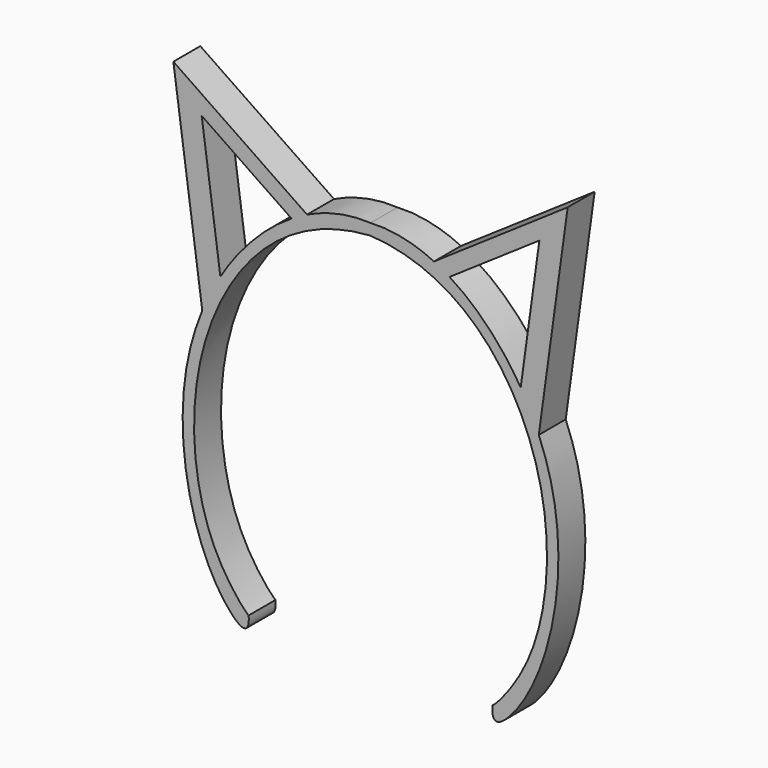
from build123d import *

# Parameters (mm, degrees)
F1_DEPTH = 2.54


with BuildPart() as f1:
    # F0 (on Front) → F1 (new body)
    with BuildSketch(Plane.XZ):
        with BuildLine():
            Line((14.8689377659, 34.9178511836), (4.7862156734, 28.0418161935))
            add(Edge.make_bspline(
                [(4.7862156734, 28.0418161935), (5.1842631853, 27.8511368087), (5.5753581281, 27.6360125047), (5.9582704652, 27.3984828182)],
                knots=[0.1204484957, 0.1204484957, 0.1204484957, 0.1204484957, 0.1520508561, 0.1520508561, 0.1520508561, 0.1520508561], degree=3))
            Line((5.9582704652, 27.3984828182), (12.732363106, 32.0181577032))
            Line((12.732363106, 32.0181577032), (11.3236512241, 21.7942845656))
            add(Edge.make_bspline(
                [(11.3236512241, 21.7942845656), (11.8440132645, 20.9359181108), (12.302606577, 20.0312328496), (12.6890896057, 19.0973762258)],
                knots=[0.3256392374, 0.3256392374, 0.3256392374, 0.3256392374, 0.3898994489, 0.3898994489, 0.3898994489, 0.3898994489], degree=3))
            Line((12.6890896057, 19.0973762258), (14.8689377659, 34.9178511836))
        make_face()
        with BuildLine():
            add(Edge.make_bspline(
                [(-4.7862156734, 28.0418161935), (-5.1842631853, 27.8511368087), (-5.5753581281, 27.6360125047), (-5.9582704652, 27.3984828182)],
                knots=[0.1204484957, 0.1204484957, 0.1204484957, 0.1204484957, 0.1520508561, 0.1520508561, 0.1520508561, 0.1520508561], degree=3))
            Line((-4.7862156734, 28.0418161935), (-14.8689377659, 34.9178511836))
            Line((-14.8689377659, 34.9178511836), (-12.6890896057, 19.0973762258))
            add(Edge.make_bspline(
                [(-11.3236512241, 21.7942845656), (-11.8440132645, 20.9359181108), (-12.302606577, 20.0312328496), (-12.6890896057, 19.0973762258)],
                knots=[0.3256392374, 0.3256392374, 0.3256392374, 0.3256392374, 0.3898994489, 0.3898994489, 0.3898994489, 0.3898994489], degree=3))
            Line((-11.3236512241, 21.7942845656), (-12.732363106, 32.0181577032))
            Line((-12.732363106, 32.0181577032), (-5.9582704652, 27.3984828182))
        make_face()
        with BuildLine():
            add(Edge.make_bspline(
                [(0, 29.043843347), (1.6510006337, 29.1402167196), (3.2691067187, 28.7685671305), (4.7862156734, 28.0418161935)],
                knots=[0, 0, 0, 0, 0.1204484957, 0.1204484957, 0.1204484957, 0.1204484957], degree=3))
            add(Edge.make_bspline(
                [(0, 29.043843347), (-1.6510006337, 29.1402167196), (-3.2691067187, 28.7685671305), (-4.7862156734, 28.0418161935)],
                knots=[0, 0, 0, 0, 0.1204484957, 0.1204484957, 0.1204484957, 0.1204484957], degree=3))
            add(Edge.make_bspline(
                [(-4.7862156734, 28.0418161935), (-5.1842631853, 27.8511368087), (-5.5753581281, 27.6360125047), (-5.9582704652, 27.3984828182)],
                knots=[0.1204484957, 0.1204484957, 0.1204484957, 0.1204484957, 0.1520508561, 0.1520508561, 0.1520508561, 0.1520508561], degree=3))
            add(Edge.make_bspline(
                [(-5.9582704652, 27.3984828182), (-8.0615669228, 26.0937576898), (-9.9179788464, 24.1130202187), (-11.3236512241, 21.7942845656)],
                knots=[0.1520508561, 0.1520508561, 0.1520508561, 0.1520508561, 0.3256392374, 0.3256392374, 0.3256392374, 0.3256392374], degree=3))
            add(Edge.make_bspline(
                [(-11.3236512241, 21.7942845656), (-11.8440132645, 20.9359181108), (-12.302606577, 20.0312328496), (-12.6890896057, 19.0973762258)],
                knots=[0.3256392374, 0.3256392374, 0.3256392374, 0.3256392374, 0.3898994489, 0.3898994489, 0.3898994489, 0.3898994489], degree=3))
            add(Edge.make_bspline(
                [(-12.6890896057, 19.0973762258), (-13.0103649171, 18.3210806182), (-15.4505220691, 11.1613604921), (-12.8247367975, 1.0065517387), (-9.0871575297, -1.5643117344), (-9.1890276516, 0)],
                knots=[0.3898994489, 0.3898994489, 0.3898994489, 0.3898994489, 0.4433176275, 0.8701021062, 1, 1, 1, 1], degree=3))
            add(Edge.make_bspline(
                [(0, 28.1988892792), (-6.7379450358, 27.7811610109), (-14.5293932549, 18.0290497191), (-13.0806609004, 4.071660879), (-9.4108605954, 0.1006722728), (-9.1890276516, 0)],
                knots=[0, 0, 0, 0, 0.4049172426, 0.7736450245, 0.9793497587, 0.9793497587, 0.9793497587, 0.9793497587], degree=3))
            add(Edge.make_bspline(
                [(0, 28.1988892792), (6.7379450358, 27.7811610109), (14.5293932549, 18.0290497191), (13.0806609004, 4.071660879), (9.4108605954, 0.1006722728), (9.1890276516, 0)],
                knots=[0, 0, 0, 0, 0.4049172426, 0.7736450245, 0.9793497587, 0.9793497587, 0.9793497587, 0.9793497587], degree=3))
            add(Edge.make_bspline(
                [(12.6890896057, 19.0973762258), (13.0103649171, 18.3210806182), (15.4505220691, 11.1613604921), (12.8247367975, 1.0065517387), (9.0871575297, -1.5643117344), (9.1890276516, 0)],
                knots=[0.3898994489, 0.3898994489, 0.3898994489, 0.3898994489, 0.4433176275, 0.8701021062, 1, 1, 1, 1], degree=3))
            add(Edge.make_bspline(
                [(11.3236512241, 21.7942845656), (11.8440132645, 20.9359181108), (12.302606577, 20.0312328496), (12.6890896057, 19.0973762258)],
                knots=[0.3256392374, 0.3256392374, 0.3256392374, 0.3256392374, 0.3898994489, 0.3898994489, 0.3898994489, 0.3898994489], degree=3))
            add(Edge.make_bspline(
                [(5.9582704652, 27.3984828182), (8.0615669228, 26.0937576898), (9.9179788464, 24.1130202187), (11.3236512241, 21.7942845656)],
                knots=[0.1520508561, 0.1520508561, 0.1520508561, 0.1520508561, 0.3256392374, 0.3256392374, 0.3256392374, 0.3256392374], degree=3))
            add(Edge.make_bspline(
                [(4.7862156734, 28.0418161935), (5.1842631853, 27.8511368087), (5.5753581281, 27.6360125047), (5.9582704652, 27.3984828182)],
                knots=[0.1204484957, 0.1204484957, 0.1204484957, 0.1204484957, 0.1520508561, 0.1520508561, 0.1520508561, 0.1520508561], degree=3))
        make_face()
    extrude(amount=F1_DEPTH)


solid = f1.part
